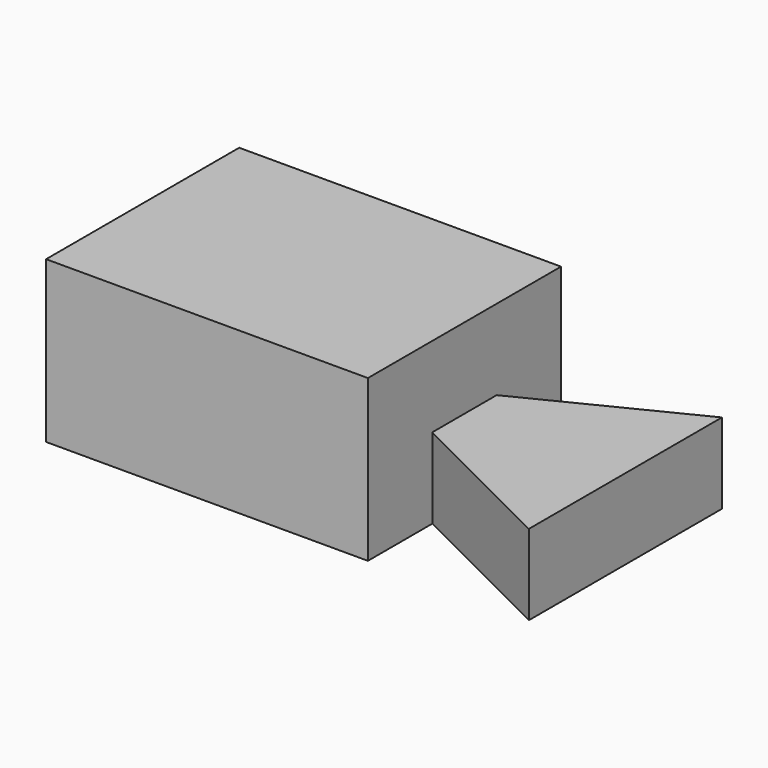
from build123d import *

# Parameters (mm, degrees)
F1_DEPTH = 76.2
F3_DEPTH = 25.4


with BuildPart() as f1:
    # F0 (on Front) → F1 (new body)
    with BuildSketch(Plane.XZ):
        Polygon((-72.9189676422, 50.8), (-72.9189676422, 0), (28.6810323578, 0), (28.6810323578, 25.4), (28.6810323578, 50.8), align=None)
    extrude(amount=F1_DEPTH)

    # F2 (on face) → F3 (join)
    with BuildSketch(Plane(origin=(0, 0, 0), x_dir=(1, 0, 0), z_dir=(0, 0, -1))):
        Polygon((79.4810323578, 0), (79.4810323578, 76.2), (28.6810323578, 50.8), (28.6810323578, 25.4), align=None)
    extrude(amount=-F3_DEPTH)


solid = f1.part
